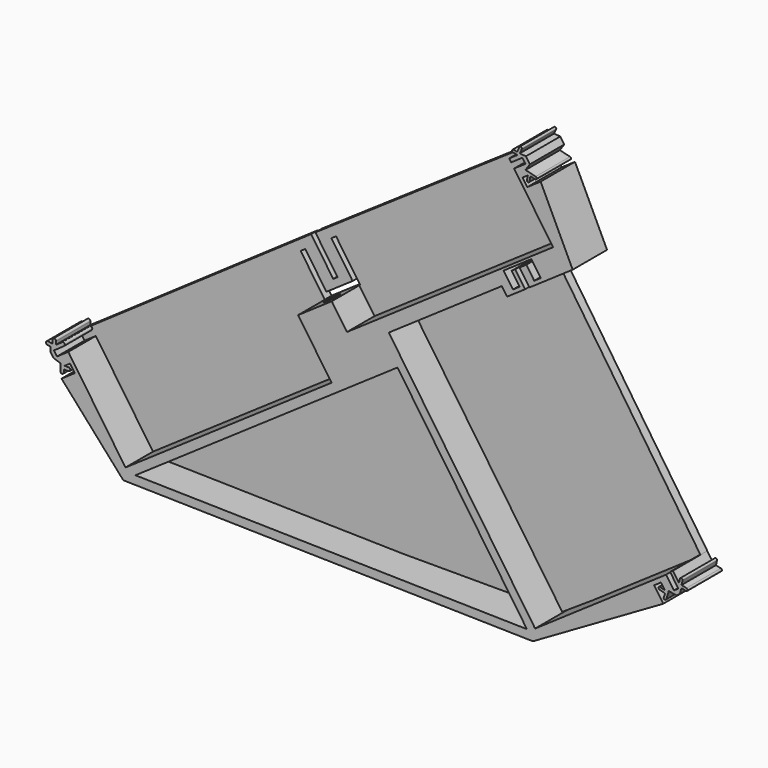
from build123d import *

# Parameters (mm, degrees)
PAD_DEPTH    = 20
SKETCH001_R  = 2.15
POCKET_DEPTH = 47
CHAMFER_SIZE = 1.5
PAD001_DEPTH = 4


with BuildPart() as part:
    # Sketch → Pad (new body)
    with BuildSketch(Plane.XZ):
        with BuildLine():
            Line((4.0390093024, 42.5746936035), (2.6558476721, 42.7938363759))
            ThreePointArc((2.9062224976, 44.3741250985), (1.9908907236, 43.70916815), (2.6558476721, 42.7938363759))
            Line((2.9062224976, 44.3741250985), (5.030422984, 44.0375749994))
            Line((5.030422984, 44.0375749994), (5.030422984, 45.679507745))
            ThreePointArc((6.630422984, 45.679507745), (5.830422984, 46.479507745), (5.030422984, 45.679507745))
            Line((6.630422984, 45.679507745), (6.630422984, 44.1665554588))
            Line((6.630422984, 44.1665554588), (8.4415504736, 45.4111549307))
            Line((8.4415504736, 45.4111549307), (9.4473057083, 46.1365999544))
            ThreePointArc((10.36219, 44.864349), (10.5417900599, 45.9585758488), (9.4473057083, 46.1365999544))
            Line((10.36219, 44.864349), (7.8490460164, 43.0626150502))
            Line((7.8490460164, 43.0626150502), (5.6390093024, 41.5438867756))
            Line((5.6390093024, 41.5438867756), (7.0549059293, 39.4834895465))
            Line((7.0549059293, 39.4834895465), (12.3295228359, 43.1081849113))
            Line((12.3295228359, 43.1081849113), (38.9483794216, 4.3727170031))
            Line((134.8804744114, 70.2968639515), (38.9483794216, 4.3727170031))
            Line((119.3056115155, 92.9612334723), (134.8804744114, 70.2968639515))
            Line((134.9646304571, 103.7220478367), (119.3056115155, 92.9612334723))
            Line((142.0441135916, 93.4200616909), (134.9646304571, 103.7220478367))
            Line((237.9762085814, 159.3442086393), (142.0441135916, 93.4200616909))
            Line((219.8527317571, 185.7172931726), (237.9762085814, 159.3442086393))
            Line((225.1273486637, 189.3419885375), (219.8527317571, 185.7172931726))
            Line((223.7114520368, 191.4023857666), (225.1273486637, 189.3419885375))
            Line((218.4368351302, 187.7776904018), (223.7114520368, 191.4023857666))
            Line((218.4368351302, 187.7776904018), (217.5306612889, 189.0963446284))
            Line((217.5306612889, 189.0963446284), (221.3848485497, 191.7449264963))
            Line((221.3848485497, 191.7449264963), (219.3793189808, 192.1708640962))
            ThreePointArc((219.6286165225, 193.3446829646), (218.9170583175, 192.8824223013), (219.3793189808, 192.1708640962))
            Line((219.6286165225, 193.3446829646), (221.2482697259, 193.0006984087))
            Line((221.2482697259, 193.0006984087), (222.3395205202, 195.3340273515))
            ThreePointArc((223.4265178948, 194.8256606455), (223.1372025604, 195.6233426858), (222.3395205202, 195.3340273515))
            Line((223.4265178948, 194.8256606455), (222.4583086449, 192.755420993))
            Line((222.4583086449, 192.755420993), (225.3597698201, 192.5351030681))
            Line((225.3597698201, 192.5351030681), (227.2058553447, 189.8486996773))
            Line((227.2058553447, 189.8486996773), (225.1628423907, 186.850988034))
            Line((225.1628423907, 186.850988034), (229.8793547275, 185.6901341722))
            ThreePointArc((229.5925630359, 184.5249086465), (230.3185716445, 184.9641255636), (229.8793547275, 185.6901341722))
            Line((229.5925630359, 184.5249086465), (227.4493724265, 185.0524024636))
            Line((227.4493724265, 185.0524024636), (226.9439351411, 182.6613604036))
            ThreePointArc((225.7710395828, 182.6559948849), (226.3596521523, 182.1854572192), (226.9439351411, 182.6613604036))
            Line((225.7710395828, 182.6559948849), (226.2736384812, 185.0336095568))
            Line((226.2736384812, 185.0336095568), (223.7973399844, 183.331907264))
            Line((223.7973399844, 183.331907264), (226.0061387224, 180.1176875865))
            Line((226.0061387224, 180.1176875865), (232.1873304099, 184.3653774672))
            Line((232.1873304099, 184.3653774672), (247.1063382508, 153.1208066582))
            Line((247.1063382508, 153.1208066582), (245.3756045783, 151.9314534916))
            Line((226.9968612942, 139.3016555797), (245.3756045783, 151.9314534916))
            Line((222.4093562231, 145.9773426022), (226.9968612942, 139.3016555797))
            Line((225.5411600114, 148.1295054751), (222.4093562231, 145.9773426022))
            Line((229.2224912413, 142.7724726792), (225.5411600114, 148.1295054751))
            Line((232.2718791405, 144.867999687), (229.2224912413, 142.7724726792))
            Line((227.9109175296, 151.2140231529), (232.2718791405, 144.867999687))
            Line((214.9716229305, 142.3221923359), (227.9109175296, 151.2140231529))
            Line((219.3325845414, 135.9761688701), (214.9716229305, 142.3221923359))
            Line((222.3819724405, 138.0716958779), (219.3325845414, 135.9761688701))
            Line((218.7006412106, 143.4287286737), (222.3819724405, 138.0716958779))
            Line((220.3489589939, 144.5614459753), (218.7006412106, 143.4287286737))
            Line((224.9364640651, 137.8857589528), (220.3489589939, 144.5614459753))
            Line((216.5602719319, 132.1296736602), (224.9364640651, 137.8857589528))
            Line((214.1249297336, 135.6735568944), (216.5602719319, 132.1296736602))
            Line((214.1249297336, 135.6735568944), (161.5133638836, 99.5191020307))
            Line((161.5133638836, 99.5191020307), (229.6352159636, 0.3889306577))
            Line((290.6229739468, 42.2994708139), (229.6352159636, 0.3889306577))
            Line((294.258762918, 37.008710613), (290.6229739468, 42.2994708139))
            Line((296.3191601472, 38.4246072399), (294.258762918, 37.008710613))
            Line((292.4603634449, 44.0398858431), (296.3191601472, 38.4246072399))
            Line((292.4603634449, 44.0398858431), (293.7790176715, 44.9460596843))
            Line((293.7790176715, 44.9460596843), (296.6113530901, 40.8244762739))
            Line((296.6113530901, 40.8244762739), (297.055734393, 42.735476101))
            ThreePointArc((298.2789600102, 42.4510288783), (297.809570813, 43.2048652982), (297.055734393, 42.735476101))
            Line((298.2789600102, 42.4510288783), (297.7984698218, 40.3847478241))
            Line((297.7984698218, 40.3847478241), (300.0943558548, 39.8731393346))
            ThreePointArc((299.8212028325, 38.6473422227), (300.5706778996, 39.1236642674), (300.0943558548, 39.8731393346))
            Line((299.8212028325, 38.6473422227), (297.7654069564, 39.105449728))
            Line((297.7654069564, 39.105449728), (296.952983487, 36.4334515477))
            Line((296.952983487, 36.4334515477), (295.3914802195, 35.3603928297))
            Line((295.3914802195, 35.3603928297), (291.8734315191, 36.0212597001))
            Line((291.8734315191, 36.0212597001), (290.6278670782, 32.2423690465))
            ThreePointArc((289.4121870072, 32.3352401719), (289.9836654433, 31.8128324322), (290.6278670782, 32.2423690465))
            Line((289.4121870072, 32.3352401719), (290.1017184324, 34.427194448))
            Line((290.1017184324, 34.427194448), (287.5647756287, 35.1692737258))
            ThreePointArc((287.653171066, 36.3937007315), (287.1147629857, 35.8171659101), (287.5647756287, 35.1692737258))
            Line((287.653171066, 36.3937007315), (290.0713769403, 35.6863531059))
            Line((290.0713769403, 35.6863531059), (288.2375880383, 38.3548625865))
            Line((288.2375880383, 38.3548625865), (285.0350616215, 36.1290479439))
            Line((285.0350616215, 36.1290479439), (289.2827515022, 29.9478562564))
            Line((289.2827515022, 29.9478562564), (228.604015, -5.173139512))
            Line((37.917178458, -1.1893531666), (228.604015, -5.173139512))
            Line((9.1699343254, 31.1087265717), (37.917178458, -1.1893531666))
            Line((15.3511260129, 35.3564164524), (9.1699343254, 31.1087265717))
            Line((13.1423272749, 38.5706361299), (15.3511260129, 35.3564164524))
            Line((10.619338857, 36.8368487126), (13.1423272749, 38.5706361299))
            Line((12.4568191979, 36.8368487126), (10.619338857, 36.8368487126))
            ThreePointArc((12.4568191979, 35.2368487126), (13.2568191979, 36.0368487126), (12.4568191979, 36.8368487126))
            Line((10.2074312987, 35.2368487126), (12.4568191979, 35.2368487126))
            Line((10.2074312987, 33.9413217047), (10.2074312987, 35.2368487126))
            ThreePointArc((8.6074312987, 33.9413217047), (9.4074312987, 33.1413217047), (10.2074312987, 33.9413217047))
            Line((8.6074312987, 37.2714912173), (8.6074312987, 33.9413217047))
            Line((5.4065881459, 38.350772245), (8.6074312987, 37.2714912173))
            Line((4.0390093024, 40.3408579662), (5.4065881459, 38.350772245))
            Line((4.0390093024, 40.3408579662), (4.0390093024, 42.5746936035))
        make_face()
        Polygon((43.5674287195, 2.6934759176), (225.8145842591, -1.1139905174), (165.5793907768, 86.5396018361), align=None, mode=Mode.SUBTRACT)
    extrude(amount=PAD_DEPTH)

    # Sketch001 (on DatumPlane) → Pocket (cut)
    with BuildSketch(Plane(origin=(-5.1227490992, 0, 7.4545682568), x_dir=(-0.8241588917, 0, -0.5663586508), z_dir=(-0.5663586508, 0, 0.8241588917))):
        with Locations((-160.5, 9.9890381016)):
            Circle(SKETCH001_R)
    extrude(amount=-POCKET_DEPTH, mode=Mode.SUBTRACT)

    # Chamfer
    chamfer_edges = [part.edges().sort_by_distance(p)[0] for p in [
        (128.926695, -9.989038, 99.572803),
    ]]
    chamfer(chamfer_edges, length=CHAMFER_SIZE)

    # Sketch002 → Pad001 (join)
    with BuildSketch(Plane.XZ):
        Polygon((8.4415504736, 45.4111549307), (4.918851, 41.369339), (7.155737, 38.386826), (12.779469, 40.715076), (40.176517, 0.3632551244), (228.996323, 0.3632551244), (288.524261, 39.629669), (294.24765, 36.288891), (297.030212, 38.458557), (293.7790176715, 44.9460596843), (228.564316, 141.632828), (244.029541, 152.010803), (221.678513, 185.245819), (225.870392, 189.519104), (223.916901, 191.960983), (217.5306612889, 189.0963446284), (114.5322283976, 118.8000303552), (124.8392314819, 103.8013926071), (122.8612501419, 102.4421318452), (112.5542362208, 117.4407853631), align=None)
        Polygon((107.6796307846, 108.9964002019), (118.8935320696, 92.6780541469), (135.3767099029, 104.0052271621), (124.1628086179, 120.3235732171), (122.0199954996, 118.8510407251), (131.8746360228, 104.5106760101), (119.6770844261, 96.1285679789), (109.8224439029, 110.4689326938), align=None, mode=Mode.SUBTRACT)
    extrude(amount=PAD001_DEPTH)


solid = part.part
